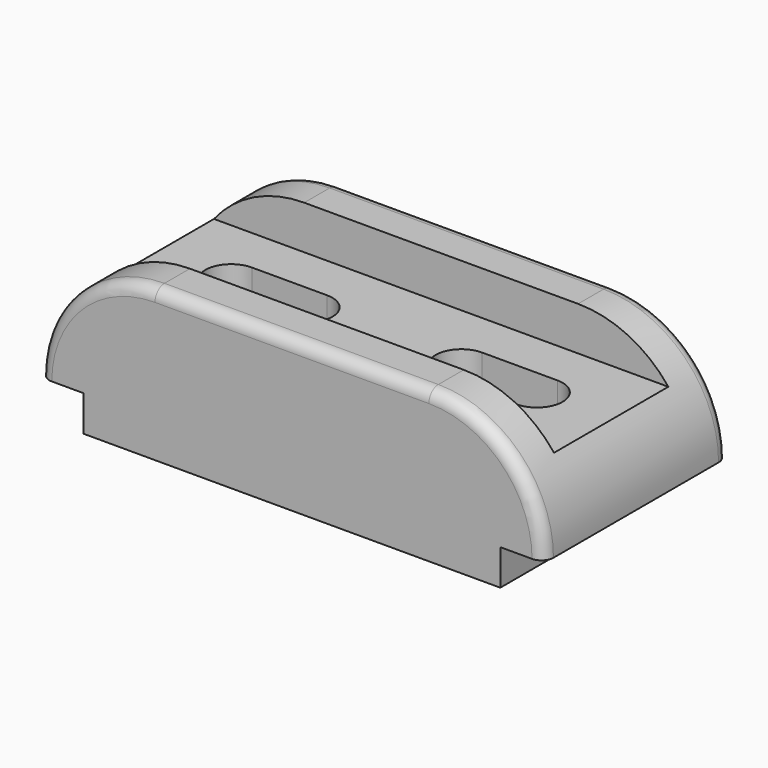
from build123d import *

# Parameters (mm, degrees)
F1_DEPTH = 58
F2_W     = 127
F2_H     = 36
F3_DEPTH = 11
F5_DEPTH = 27.001
F6_R     = 3


with BuildPart() as f1:
    # F0 (on Front) → F1 (new body)
    with BuildSketch(Plane.XZ):
        with BuildLine():
            Line((0, 9), (0, 0))
            Line((0, 0), (105, 0))
            Line((105, 0), (105, 9))
            Line((105, 9), (116, 9))
            ThreePointArc((116, 9), (107.506097, 29.506097), (87, 38))
            Line((87, 38), (18, 38))
            ThreePointArc((18, 38), (-2.506097, 29.506097), (-11, 9))
            Line((-11, 9), (0, 9))
        make_face()
    extrude(amount=F1_DEPTH)

    # F2 (on face) → F3 (cut)
    with BuildSketch(Plane.XY.offset(38)):
        with Locations((52.5, -29)):
            Rectangle(F2_W, F2_H)
    extrude(amount=-F3_DEPTH, mode=Mode.SUBTRACT)

    # F4 (on face) → F5 (cut, through all)
    with BuildSketch(Plane.XY.offset(27)):
        with BuildLine():
            Line((33, -22.5), (14, -22.5))
            ThreePointArc((14, -22.5), (7.5, -29), (14, -35.5))
            Line((14, -35.5), (33, -35.5))
            ThreePointArc((33, -35.5), (39.5, -29), (33, -22.5))
        make_face()
        with BuildLine():
            Line((91, -22.5), (72, -22.5))
            ThreePointArc((72, -22.5), (65.5, -29), (72, -35.5))
            Line((72, -35.5), (91, -35.5))
            ThreePointArc((91, -35.5), (97.5, -29), (91, -22.5))
        make_face()
    extrude(amount=-F5_DEPTH, mode=Mode.SUBTRACT)

    # F6
    f6_edges = [f1.edges().sort_by_distance(p)[0] for p in [
        (52.5, -58, 38),
        (107.506097, -58, 29.506097),
        (-2.506097, -58, 29.506097),
        (52.5, 0, 38),
        (-2.506097, 0, 29.506097),
        (107.506097, 0, 29.506097),
    ]]
    fillet(f6_edges, radius=F6_R)


solid = f1.part
